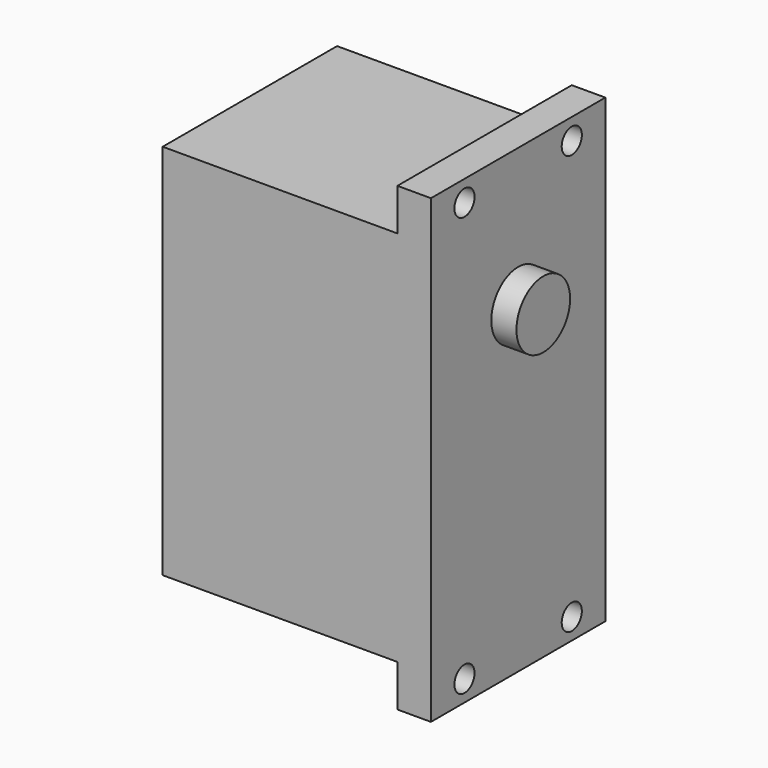
from build123d import *

# Parameters (mm, degrees)
F0_W     = 26
F0_H     = 50
F1_DEPTH = 16
F2_R     = 4
F3_DEPTH = 3
F4_W     = 28
F4_H     = 5
F5_DEPTH = 1320.8
F6_W     = 26
F6_H     = 5
F6_R     = 1.5
F7_DEPTH = 4
F8_R     = 1.5
F9_DEPTH = 4


with BuildPart() as f1:
    # F0 (on Right) → F1 (new body, symmetric)
    with BuildSketch(Plane.YZ):
        Rectangle(F0_W, F0_H)
    extrude(amount=F1_DEPTH, both=True)

    # F2 (on face) → F3 (join)
    with BuildSketch(Plane.YZ.offset(16)):
        with Locations((0, 13.5)):
            Circle(F2_R)
    extrude(amount=F3_DEPTH)

    # F4 (on face) → F5 (cut)
    with BuildSketch(Plane.XZ.offset(13)):
        with Locations((-2, -22.5)):
            Rectangle(F4_W, F4_H)
    extrude(amount=-F5_DEPTH, mode=Mode.SUBTRACT)

    # F6 (on face) → F7 (join)
    with BuildSketch(Plane.YZ.offset(16)):
        with Locations((0, 27.5)):
            Rectangle(F6_W, F6_H)
        with Locations((-8, 27.5)):
            Circle(F6_R, mode=Mode.SUBTRACT)
        with Locations((8, 27.5)):
            Circle(F6_R, mode=Mode.SUBTRACT)
    extrude(amount=-F7_DEPTH)

    # F8 (on face) → F9 (cut)
    with BuildSketch(Plane.YZ.offset(16)):
        with Locations((-8, -22.5)):
            Circle(F8_R)
        with Locations((8, -22.5)):
            Circle(F8_R)
    extrude(amount=-F9_DEPTH, mode=Mode.SUBTRACT)


solid = f1.part
